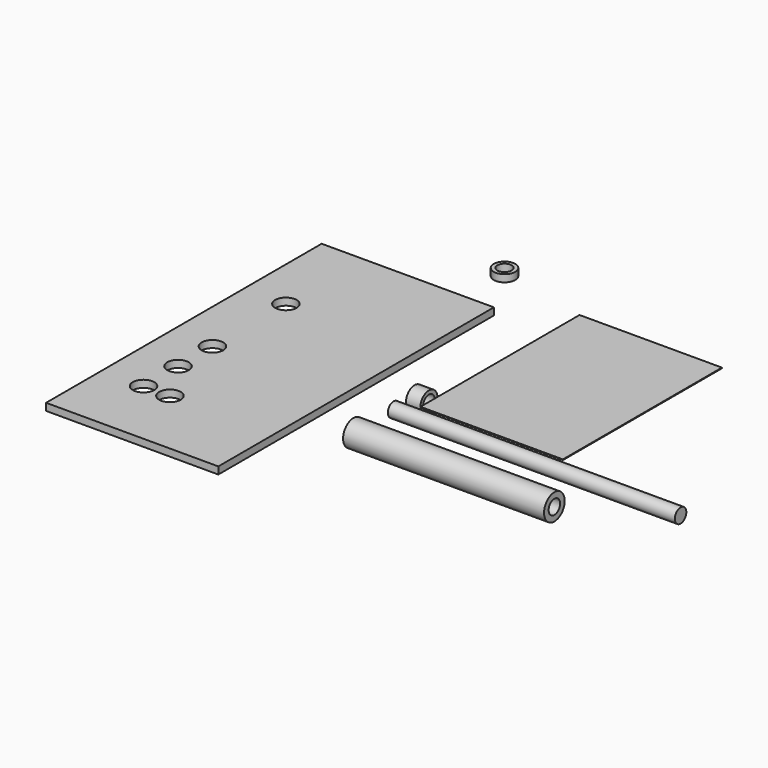
from build123d import *

# Parameters (mm, degrees)
F0_R     = 3.175
F1_DEPTH = 127
F0_R_2   = 5.715
F2_DEPTH = 88.9
F3_W     = 63
F3_H     = 87.946309
F4_DEPTH = 0.3
F0_R_3   = 4.7625
F5_DEPTH = 6.35
F6_W     = 76.2
F6_H     = 152.4
F6_R     = 4.7625
F7_DEPTH = 3.175
F8_R     = 4.7625
F8_R_2   = 3.175
F9_DEPTH = 3.175


with BuildPart() as f1:
    # F0 (on Right) → F1 (new body)
    with BuildSketch(Plane.YZ):
        Circle(F0_R)
    extrude(amount=F1_DEPTH)


with BuildPart() as f2:
    # F0 (on Right) → F2 (new body)
    with BuildSketch(Plane.YZ):
        with Locations((-22.189628, 0)):
            Circle(F0_R_2)
        with Locations((-22.189628, 0)):
            Circle(F0_R, mode=Mode.SUBTRACT)
    extrude(amount=F2_DEPTH)


with BuildPart() as f4:
    # F3 (on Top) → F4 (new body)
    with BuildSketch(Plane.XY):
        with Locations((37.876387, 50.899224)):
            Rectangle(F3_W, F3_H)
    extrude(amount=F4_DEPTH)


with BuildPart() as f5:
    # F0 (on Right) → F5 (new body)
    with BuildSketch(Plane.YZ):
        with Locations((11.611233, 0)):
            Circle(F0_R_3)
        with Locations((11.611233, 0)):
            Circle(F0_R, mode=Mode.SUBTRACT)
    extrude(amount=F5_DEPTH)


with BuildPart() as f7:
    # F6 (on Top) → F7 (new body)
    with BuildSketch(Plane.XY):
        with Locations((-54.949955, 0.351957)):
            Rectangle(F6_W, F6_H)
        with Locations((-74.549506, -45.076377)):
            Circle(F6_R, mode=Mode.SUBTRACT)
        with Locations((-62.865506, -45.076377)):
            Circle(F6_R, mode=Mode.SUBTRACT)
        with Locations((-74.549506, -26.012443)):
            Circle(F6_R, mode=Mode.SUBTRACT)
        with Locations((-74.549506, -6.976377)):
            Circle(F6_R, mode=Mode.SUBTRACT)
        with Locations((-74.549506, 33.663623)):
            Circle(F6_R, mode=Mode.SUBTRACT)
    extrude(amount=F7_DEPTH)


with BuildPart() as f9:
    # F8 (on Top) → F9 (new body)
    with BuildSketch(Plane.XY):
        with Locations((-32.427739, 101.893432)):
            Circle(F8_R)
        with Locations((-32.427739, 101.893432)):
            Circle(F8_R_2, mode=Mode.SUBTRACT)
    extrude(amount=F9_DEPTH)


solid = Compound([f1.part, f2.part, f4.part, f5.part, f7.part, f9.part])
